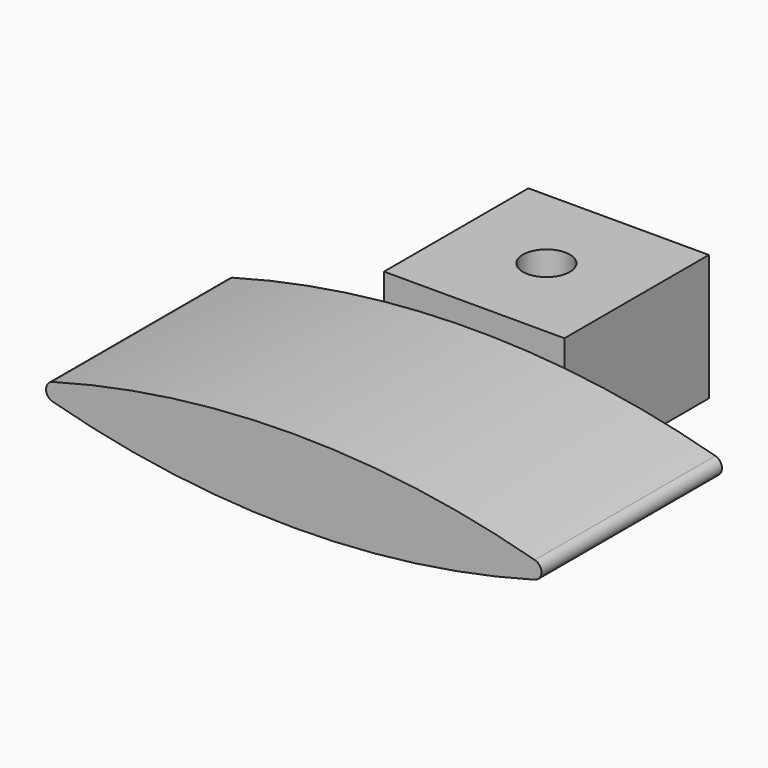
from build123d import *

# Parameters (mm, degrees)
F0_W     = 20
F0_H     = 20
F1_DEPTH = 14
F3_DEPTH = 25
F5_D     = 5.2
F6_R     = 1
F7_R     = 1


with BuildPart() as f1:
    # F0 (on Top) → F1 (new body)
    with BuildSketch(Plane.XY):
        with Locations((10, 10)):
            Rectangle(F0_W, F0_H)
    extrude(amount=F1_DEPTH)

    # F2 (on Front) → F3 (join)
    with BuildSketch(Plane.XZ):
        with BuildLine():
            ThreePointArc((-20, 7), (10, 2.4258640188), (40, 7))
            ThreePointArc((40, 7), (10, 11.5741359812), (-20, 7))
        make_face()
    extrude(amount=F3_DEPTH)

    # F5 (through all)
    with Locations(Plane.XY.offset(14)):
        with Locations((10, 10)):
            Hole(F5_D / 2)

    # F6
    f6_edges = [f1.edges().sort_by_distance(p)[0] for p in [
        (40, -12.5, 7),
    ]]
    fillet(f6_edges, radius=F6_R)

    # F7
    f7_edges = [f1.edges().sort_by_distance(p)[0] for p in [
        (-20, -12.5, 7),
    ]]
    fillet(f7_edges, radius=F7_R)


solid = f1.part
